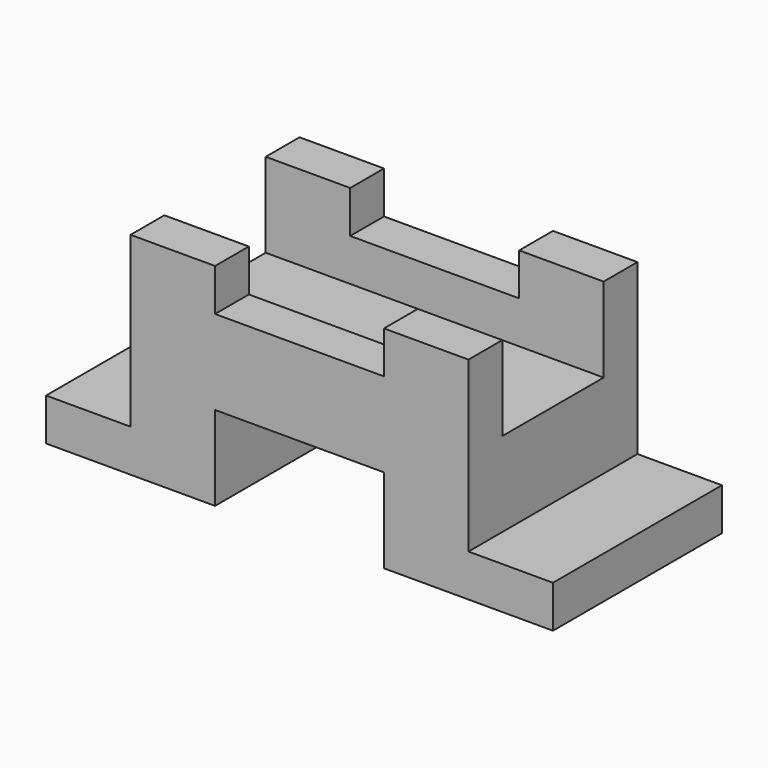
from build123d import *

# Parameters (mm, degrees)
F2_DEPTH = 25
F3_W     = 30
F3_H     = 20
F4_DEPTH = 100.001


with BuildPart() as f2:
    # F1 (on Front) → F2 (new body, symmetric)
    with BuildSketch(Plane.XZ):
        Polygon((-59.8092996926, 0), (-19.8092996926, 0), (-19.8092996926, 20), (20.1907003074, 20), (20.1907003074, 0), (60.1907003074, 0), (60.1907003074, 10), (40.1907003074, 10), (40.1907003074, 50), (20.1907003074, 50), (20.1907003074, 40), (-19.8092996926, 40), (-19.8092996926, 50), (-39.8092996926, 50), (-39.8092996926, 10), (-59.8092996926, 10), align=None)
    extrude(amount=F2_DEPTH, both=True)

    # F3 (on face) → F4 (cut, through all)
    with BuildSketch(Plane.YZ.offset(40.1907003074)):
        with Locations((0, 40)):
            Rectangle(F3_W, F3_H)
    extrude(amount=-F4_DEPTH, mode=Mode.SUBTRACT)


solid = f2.part
